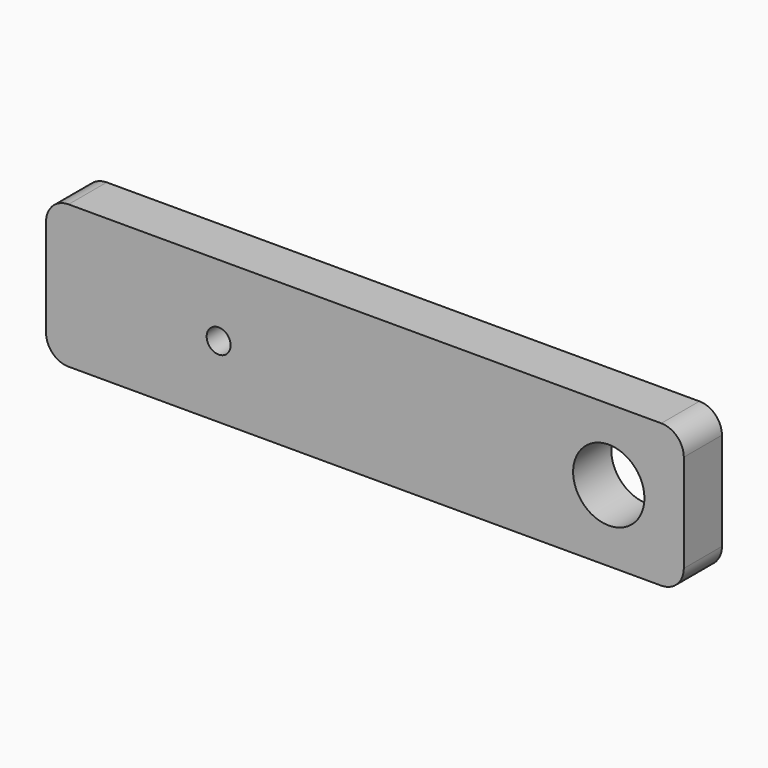
from build123d import *

# Parameters (mm, degrees)
F0_R     = 1.6
F0_R_2   = 4.75
F1_DEPTH = 6.35
F2_R     = 1.5
F3_DEPTH = 5
F4_R     = 1.5
F5_DEPTH = 5


with BuildPart() as f1:
    # F0 (on Front) → F1 (new body)
    with BuildSketch(Plane.XZ):
        with BuildLine():
            Line((39.5, 9.525), (-39.5, 9.525))
            ThreePointArc((-39.5, 9.525), (-41.62132, 8.64632), (-42.5, 6.525))
            Line((-42.5, 6.525), (-42.5, -6.525))
            ThreePointArc((-42.5, -6.525), (-41.62132, -8.64632), (-39.5, -9.525))
            Line((-39.5, -9.525), (39.5, -9.525))
            ThreePointArc((39.5, -9.525), (41.62132, -8.64632), (42.5, -6.525))
            Line((42.5, -6.525), (42.5, 6.525))
            ThreePointArc((42.5, 6.525), (41.62132, 8.64632), (39.5, 9.525))
        make_face()
        with Locations((-19.5, 0)):
            Circle(F0_R, mode=Mode.SUBTRACT)
        with Locations((32.5, 0)):
            Circle(F0_R_2, mode=Mode.SUBTRACT)
    extrude(amount=-F1_DEPTH)

    # F2 (on face) → F3 (cut)
    with BuildSketch(Plane(origin=(0, 0, -9.525), x_dir=(1, 0, 0), z_dir=(0, 0, -1))):
        with Locations((-25.5, -3.175)):
            Circle(F2_R)
    extrude(amount=-F3_DEPTH, mode=Mode.SUBTRACT)

    # F4 (on face) → F5 (cut)
    with BuildSketch(Plane(origin=(0, 0, -9.525), x_dir=(1, 0, 0), z_dir=(0, 0, -1))):
        with Locations((25.5, -3.175)):
            Circle(F4_R)
    extrude(amount=-F5_DEPTH, mode=Mode.SUBTRACT)


solid = f1.part
